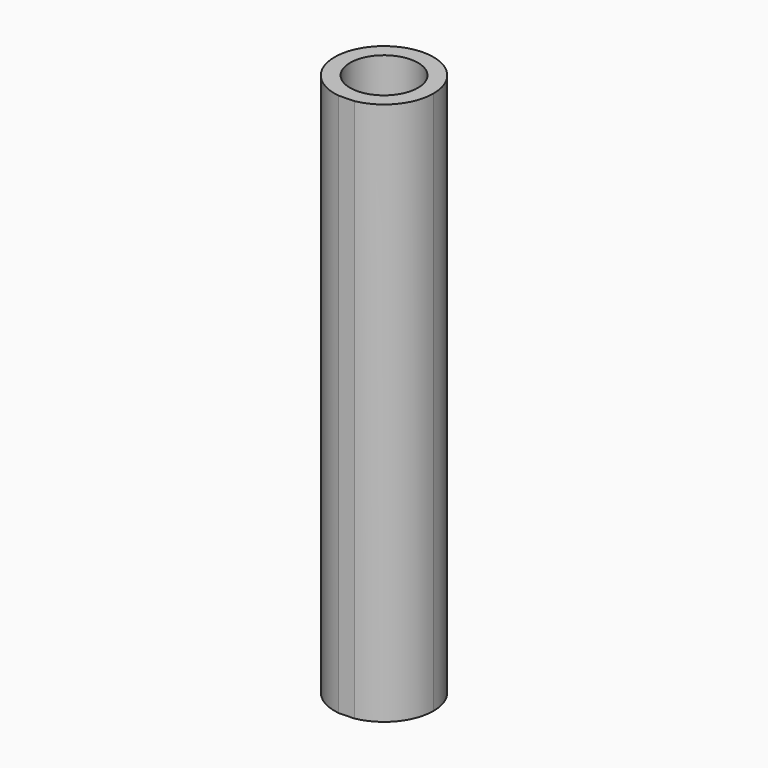
from build123d import *

# Parameters (mm, degrees)
F0_R     = 13.97
F1_DEPTH = 223.52


with BuildPart() as f1:
    # F0 (on Top) → F1 (new body)
    with BuildSketch(Plane.XY):
        with BuildLine():
            ThreePointArc((3.744277, -19.97205), (15.636274, -12.977263), (20.32, 0))
            ThreePointArc((20.32, 0), (-13.416524, 15.261038), (-2.603157, -20.152567))
            Line((-2.603157, -20.152567), (3.744277, -19.97205))
        make_face()
        Circle(F0_R, mode=Mode.SUBTRACT)
    extrude(amount=F1_DEPTH)


solid = f1.part
